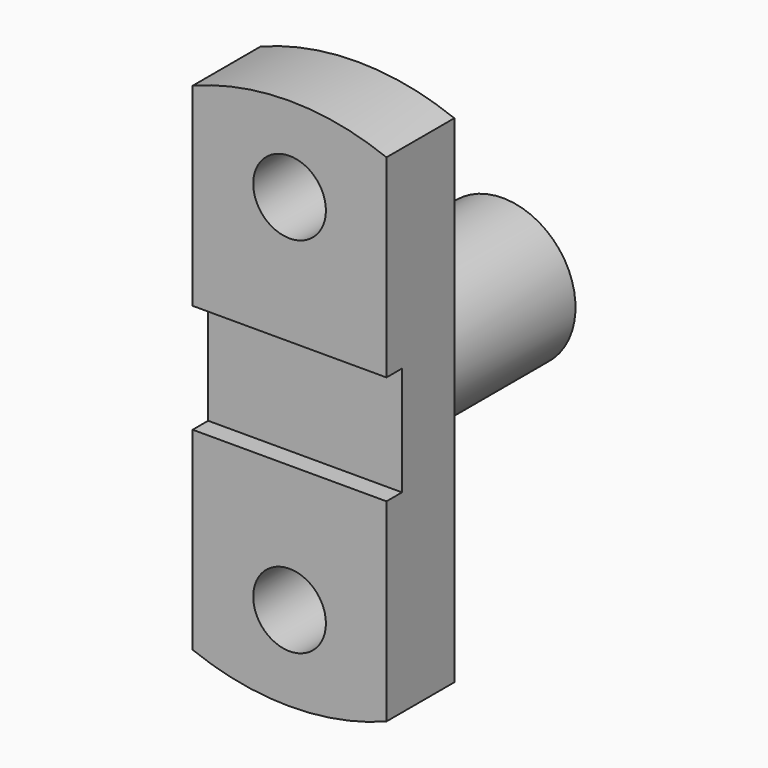
from build123d import *

# Parameters (mm, degrees)
SKETCH001_R     = 110
PAD001_DEPTH    = 20
SKETCH_W        = 80
SKETCH_H        = 250
PAD_DEPTH       = 17.5
SKETCH002_R     = 15
POCKET_DEPTH    = 35.001
SKETCH003_W     = 131.241745
SKETCH003_H     = 45
POCKET001_DEPTH = 8
SKETCH004_R     = 30
PAD002_DEPTH    = 75


with BuildPart() as pad001:
    # Sketch001 → Pad001 (new body, symmetric)
    with BuildSketch(Plane.XZ):
        Circle(SKETCH001_R)
    extrude(amount=PAD001_DEPTH, both=True)


with BuildPart() as pad002:
    # Sketch → Pad (new body, symmetric)
    with BuildSketch(Plane.XZ):
        Rectangle(SKETCH_W, SKETCH_H)
    extrude(amount=PAD_DEPTH, both=True)

    # Common: intersect Pad001
    add(pad001.part, mode=Mode.INTERSECT)

    # Sketch002 → Pocket (cut, through all)
    with BuildSketch(Plane.XZ.offset(17.5)):
        with Locations((0, 75)):
            Circle(SKETCH002_R)
        with Locations((0, -75)):
            Circle(SKETCH002_R)
    extrude(amount=-POCKET_DEPTH, mode=Mode.SUBTRACT)

    # Sketch003 → Pocket001 (cut)
    with BuildSketch(Plane.XZ.offset(17.5)):
        with Locations((3.405915, 0)):
            Rectangle(SKETCH003_W, SKETCH003_H)
    extrude(amount=-POCKET001_DEPTH, mode=Mode.SUBTRACT)

    # Sketch004 → Pad002 (new body)
    with BuildSketch(Plane(origin=(0, 17.5, 0), x_dir=(-1, 0, 0), z_dir=(0, 1, 0))):
        Circle(SKETCH004_R)
    extrude(amount=PAD002_DEPTH)


solid = pad002.part
